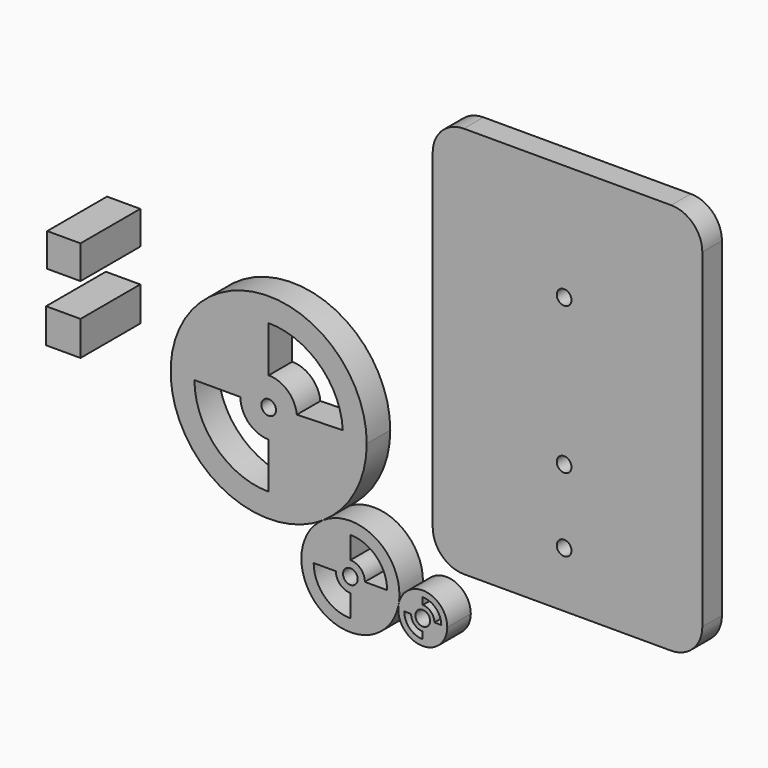
from build123d import *

# Parameters (mm, degrees)
F0_R     = 1.5
F1_DEPTH = 6
F2_R     = 1.5
F3_DEPTH = 5
F4_W     = 7.018421
F4_H     = 7.01842
F4_W_2   = 6.784473
F4_H_2   = 6.784472
F5_DEPTH = 15.24


with BuildPart() as f1:
    # F0 (on Front) → F1 (new body)
    with BuildSketch(Plane.XZ):
        with BuildLine():
            ThreePointArc((-15.773883, -4.447561), (-9.245511, 2.754156), (-6.883402, 12.183091))
            ThreePointArc((-6.883402, 12.183091), (-44.521293, 21.612025), (-15.773883, -4.447561))
        make_face()
        with BuildLine():
            Line((-42.025516, 12.183091), (-32.652731, 12.183091))
            ThreePointArc((-32.652731, 12.183091), (-30.962933, 8.103559), (-26.883402, 6.413762))
            Line((-26.883402, 6.413762), (-26.883402, -2.959023))
            ThreePointArc((-26.883402, -2.959023), (-37.590493, 1.475999), (-42.025516, 12.183091))
        make_face(mode=Mode.SUBTRACT)
        with Locations((-26.883402, 12.183091)):
            Circle(F0_R, mode=Mode.SUBTRACT)
        with BuildLine():
            Line((-26.883402, 17.952419), (-26.883402, 27.325204))
            ThreePointArc((-26.883402, 27.325204), (-16.475064, 23.180823), (-11.76423, 13.016304))
            Line((-11.76423, 13.016304), (-21.142797, 12.758075))
            ThreePointArc((-21.142797, 12.758075), (-23.012493, 16.461082), (-26.883402, 17.952419))
        make_face(mode=Mode.SUBTRACT)
        with BuildLine():
            ThreePointArc((-0.219123, -12.762887), (-5.504656, -3.943942), (-15.773883, -4.447561))
            ThreePointArc((-15.773883, -4.447561), (-15.705018, -21.123805), (-0.379777, -14.54818))
            ThreePointArc((-0.379777, -14.54818), (-0.259368, -13.659141), (-0.219123, -12.762887))
        make_face()
        with BuildLine():
            Line((-17.708856, -12.762887), (-13.173558, -12.762887))
            ThreePointArc((-13.173558, -12.762887), (-12.308224, -14.851988), (-10.219123, -15.717322))
            Line((-10.219123, -15.717322), (-10.219123, -20.25262))
            ThreePointArc((-10.219123, -20.25262), (-15.515164, -18.058928), (-17.708856, -12.762887))
        make_face(mode=Mode.SUBTRACT)
        with Locations((-10.219123, -12.762887)):
            Circle(F0_R, mode=Mode.SUBTRACT)
        with BuildLine():
            ThreePointArc((-7.264688, -12.762887), (-8.130022, -10.673786), (-10.219123, -9.808452))
            Line((-10.219123, -9.808452), (-10.219123, -5.273154))
            ThreePointArc((-10.219123, -5.273154), (-4.923082, -7.466846), (-2.72939, -12.762887))
            Line((-2.72939, -12.762887), (-7.264688, -12.762887))
        make_face(mode=Mode.SUBTRACT)
        with BuildLine():
            ThreePointArc((9.539896, -15.440827), (4.988022, -10.460949), (-0.379777, -14.54818))
            ThreePointArc((-0.379777, -14.54818), (4.091769, -20.420704), (9.539896, -15.440827))
        make_face()
        with BuildLine():
            Line((0.760653, -15.440827), (2.160979, -15.440827))
            ThreePointArc((2.160979, -15.440827), (2.857748, -17.122975), (4.539896, -17.819744))
            Line((4.539896, -17.819744), (4.539896, -19.22007))
            ThreePointArc((4.539896, -19.22007), (1.867568, -18.113155), (0.760653, -15.440827))
        make_face(mode=Mode.SUBTRACT)
        with Locations((4.539896, -15.440827)):
            Circle(F0_R, mode=Mode.SUBTRACT)
        with BuildLine():
            Line((4.539896, -13.06191), (4.539896, -11.661584))
            ThreePointArc((4.539896, -11.661584), (7.212224, -12.768498), (8.319139, -15.440827))
            Line((8.319139, -15.440827), (6.918813, -15.440827))
            ThreePointArc((6.918813, -15.440827), (6.222044, -13.758678), (4.539896, -13.06191))
        make_face(mode=Mode.SUBTRACT)
    extrude(amount=F1_DEPTH)


with BuildPart() as f3:
    # F2 (on Front) → F3 (new body)
    with BuildSketch(Plane.XZ):
        with BuildLine():
            Line((54.413693, 74.533505), (12.122693, 74.533505))
            ThreePointArc((12.122693, 74.533505), (7.632565, 72.673633), (5.772693, 68.183505))
            Line((5.772693, 68.183505), (5.772693, 0.883505))
            ThreePointArc((5.772693, 0.883505), (7.632565, -3.606623), (12.122693, -5.466495))
            Line((12.122693, -5.466495), (54.413693, -5.466495))
            ThreePointArc((54.413693, -5.466495), (58.903821, -3.606623), (60.763693, 0.883505))
            Line((60.763693, 0.883505), (60.763693, 30.880905))
            Line((60.763693, 30.880905), (60.763693, 68.183505))
            ThreePointArc((60.763693, 68.183505), (58.903821, 72.673633), (54.413693, 74.533505))
        make_face()
        with Locations((32.573591, 5.883088)):
            Circle(F2_R, mode=Mode.SUBTRACT)
        with Locations((32.573591, 20.883088)):
            Circle(F2_R, mode=Mode.SUBTRACT)
        with Locations((32.573591, 50.883088)):
            Circle(F2_R, mode=Mode.SUBTRACT)
    extrude(amount=F3_DEPTH)


with BuildPart() as f5:
    # F4 (on Front) → F5 (new body)
    with BuildSketch(Plane.XZ):
        with Locations((-61.386353, 18.247895)):
            Rectangle(F4_W, F4_H)
        with Locations((-61.269379, 31.933816)):
            Rectangle(F4_W_2, F4_H_2)
    extrude(amount=F5_DEPTH)


solid = Compound([f1.part, f3.part, f5.part])
